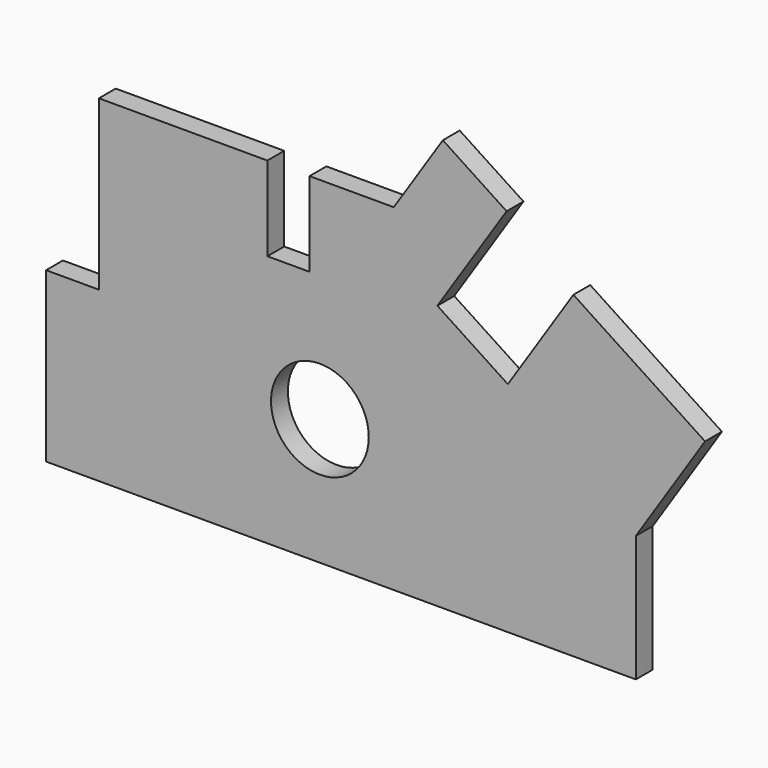
from build123d import *

# Parameters (mm, degrees)
F0_R     = 147.348928
F1_DEPTH = 63.5


with BuildPart() as f1:
    # F0 (on Front) → F1 (new body)
    with BuildSketch(Plane.XZ):
        Polygon((447.081639, 635), (-60.918361, 635), (-60.918361, 127), (-220.129594, 127), (-220.129594, -381), (1557.870406, -381), (1557.870406, 0), (1766.630712, 318.716386), (1369.612092, 578.764918), (1172.052729, 277.149121), (959.575138, 416.322658), (1168.335444, 735.039044), (976.08755, 860.962061), (828.081639, 635), (574.081639, 635), (574.081639, 381), (447.081639, 381), align=None)
        with Locations((605.370406, 0)):
            Circle(F0_R, mode=Mode.SUBTRACT)
    extrude(amount=F1_DEPTH)


solid = f1.part
